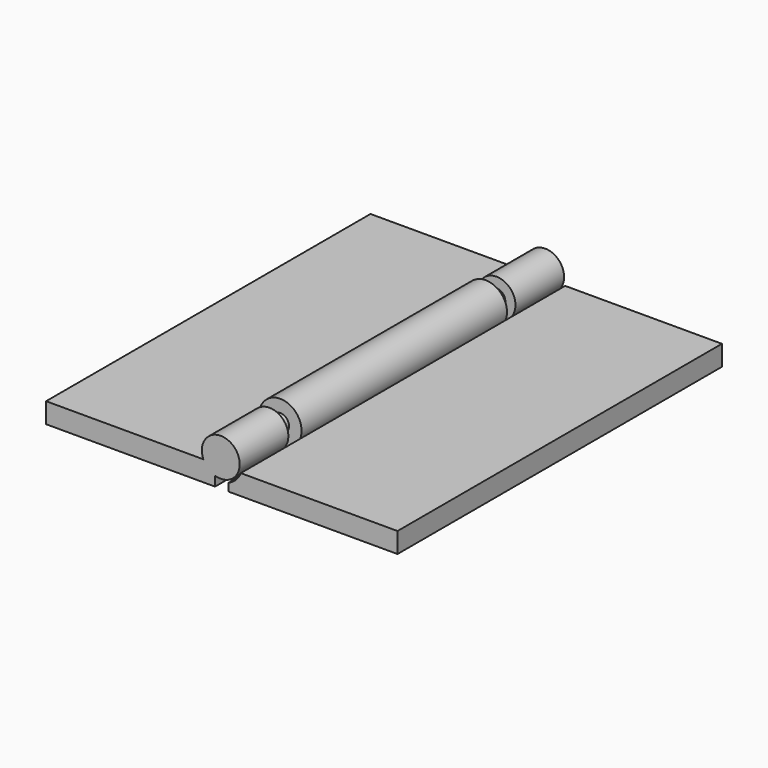
from build123d import *

# Parameters (mm, degrees)
CYLINDER007_R               = 1.3
CYLINDER007_DEPTH           = 12
CYLINDER007_ROLL_ANGLE      = 90
CYLINDER005_R               = 2.8
CYLINDER005_DEPTH           = 9
CYLINDER005_ROLL_ANGLE      = 90
CYLINDER003_R               = 2.8
CYLINDER003_DEPTH           = 60
CYLINDER003_ROLL_ANGLE      = 90
BOX_W                       = 25
BOX_H                       = 60
BOX_DEPTH                   = 3
CYLINDER004_R               = 2.8
CYLINDER004_DEPTH           = 9
CYLINDER004_ROLL_ANGLE      = 90
CYLINDER006_R               = 1.3
CYLINDER006_DEPTH           = 12
CYLINDER006_ROLL_ANGLE      = 90
CYLINDER001_R               = 1.5
CYLINDER001_DEPTH           = 38
CYLINDER001_ROLL_ANGLE      = -0.287004
CYLINDER001_PITCH_ANGLE     = 73.550491
CYLINDER001_PLACEMENT_ANGLE = -9.744548
CYLINDER_R                  = 3.15
CYLINDER_DEPTH              = 38
CYLINDER_ROLL_ANGLE         = 90
CYLINDER002_R               = 3.15
CYLINDER002_DEPTH           = 60
CYLINDER002_ROLL_ANGLE      = 90
BOX001_W                    = 25
BOX001_H                    = 60
BOX001_DEPTH                = 3


with BuildPart() as cylinder007:
    # Cylinder007 → Cylinder007 (new body)
    with BuildSketch(Plane.XY):
        Circle(CYLINDER007_R)
    extrude(amount=CYLINDER007_DEPTH)


with BuildPart() as cylinder007_1:
    # Cylinder007 roll: moved
    add(cylinder007.part.rotate(Axis((0, 0, 0), (1, 0, 0)), CYLINDER007_ROLL_ANGLE))


with BuildPart() as cylinder007_2:
    # Cylinder007 placement: moved
    add(cylinder007_1.part.moved(Location((28.15, 60, 3.1))))


with BuildPart() as fusion:
    # Cylinder005 → Cylinder005 (new body)
    with BuildSketch(Plane.XY):
        Circle(CYLINDER005_R)
    extrude(amount=CYLINDER005_DEPTH)


with BuildPart() as fusion_1:
    # Cylinder005 roll: moved
    add(fusion.part.rotate(Axis((0, 0, 0), (1, 0, 0)), CYLINDER005_ROLL_ANGLE))


with BuildPart() as fusion_2:
    # Cylinder005 placement: moved
    add(fusion_1.part.moved(Location((28.15, 60, 3.1))))

    # Fusion: union Cylinder007
    add(cylinder007_2.part)


with BuildPart() as cylinder003:
    # Cylinder003 → Cylinder003 (new body)
    with BuildSketch(Plane.XY):
        Circle(CYLINDER003_R)
    extrude(amount=CYLINDER003_DEPTH)


with BuildPart() as cylinder003_1:
    # Cylinder003 roll: moved
    add(cylinder003.part.rotate(Axis((0, 0, 0), (1, 0, 0)), CYLINDER003_ROLL_ANGLE))


with BuildPart() as cylinder003_2:
    # Cylinder003 placement: moved
    add(cylinder003_1.part.moved(Location((28.2, 60, 3.1))))


with BuildPart() as cut002:
    # Box → Box (new body)
    with BuildSketch(Plane(origin=(2.3, 0, -1), x_dir=(1, 0, 0), z_dir=(0, 0, 1))):
        with Locations((12.5, 30)):
            Rectangle(BOX_W, BOX_H)
    extrude(amount=BOX_DEPTH)

    # Cut002: cut Cylinder003
    add(cylinder003_2.part, mode=Mode.SUBTRACT)


with BuildPart() as cylinder004:
    # Cylinder004 → Cylinder004 (new body)
    with BuildSketch(Plane.XY):
        Circle(CYLINDER004_R)
    extrude(amount=CYLINDER004_DEPTH)


with BuildPart() as cylinder004_1:
    # Cylinder004 roll: moved
    add(cylinder004.part.rotate(Axis((0, 0, 0), (1, 0, 0)), CYLINDER004_ROLL_ANGLE))


with BuildPart() as cylinder004_2:
    # Cylinder004 placement: moved
    add(cylinder004_1.part.moved(Location((28.15, 9, 3.1))))


with BuildPart() as fusion002:
    # Cylinder006 → Cylinder006 (new body)
    with BuildSketch(Plane.XY):
        Circle(CYLINDER006_R)
    extrude(amount=CYLINDER006_DEPTH)


with BuildPart() as fusion002_1:
    # Cylinder006 roll: moved
    add(fusion002.part.rotate(Axis((0, 0, 0), (1, 0, 0)), CYLINDER006_ROLL_ANGLE))


with BuildPart() as fusion002_2:
    # Cylinder006 placement: moved
    add(fusion002_1.part.moved(Location((28.15, 12, 3.1))))

    # Fusion001: union Cylinder004
    add(cylinder004_2.part)

    # Fusion002: union Fusion, Cut002
    add(fusion_2.part)
    add(cut002.part)


with BuildPart() as cylinder001:
    # Cylinder001 → Cylinder001 (new body)
    with BuildSketch(Plane.XY):
        Circle(CYLINDER001_R)
    extrude(amount=CYLINDER001_DEPTH)


with BuildPart() as cylinder001_1:
    # Cylinder001 roll: moved
    add(cylinder001.part.rotate(Axis((0, 0, 0), (1, 0, 0)), CYLINDER001_ROLL_ANGLE))


with BuildPart() as cylinder001_2:
    # Cylinder001 pitch: moved
    add(cylinder001_1.part.rotate(Axis((0, 0, 0), (0, 1, 0)), CYLINDER001_PITCH_ANGLE))


with BuildPart() as cylinder001_3:
    # Cylinder001 placement: moved
    add(cylinder001_2.part.moved(Location((77.098368, 2.919036, 17.796417))).rotate(Axis((77.098368, 2.919036, 17.796417), (0, 0, 1)), CYLINDER001_PLACEMENT_ANGLE))


with BuildPart() as cut001:
    # Cylinder → Cylinder (new body)
    with BuildSketch(Plane.XY):
        Circle(CYLINDER_R)
    extrude(amount=CYLINDER_DEPTH)


with BuildPart() as cut001_1:
    # Cylinder roll: moved
    add(cut001.part.rotate(Axis((0, 0, 0), (1, 0, 0)), CYLINDER_ROLL_ANGLE))


with BuildPart() as cut001_2:
    # Cylinder placement: moved
    add(cut001_1.part.moved(Location((28.15, 49, 3.1))))

    # Cut001: cut Cylinder001
    add(cylinder001_3.part, mode=Mode.SUBTRACT)


with BuildPart() as cylinder002:
    # Cylinder002 → Cylinder002 (new body)
    with BuildSketch(Plane.XY):
        Circle(CYLINDER002_R)
    extrude(amount=CYLINDER002_DEPTH)


with BuildPart() as cylinder002_1:
    # Cylinder002 roll: moved
    add(cylinder002.part.rotate(Axis((0, 0, 0), (1, 0, 0)), CYLINDER002_ROLL_ANGLE))


with BuildPart() as cylinder002_2:
    # Cylinder002 placement: moved
    add(cylinder002_1.part.moved(Location((28.15, 60, 3.1))))


with BuildPart() as fusion003:
    # Box001 → Box001 (new body)
    with BuildSketch(Plane(origin=(29.3, 0, -1), x_dir=(1, 0, 0), z_dir=(0, 0, 1))):
        with Locations((12.5, 30)):
            Rectangle(BOX001_W, BOX001_H)
    extrude(amount=BOX001_DEPTH)

    # Cut: cut Cylinder002
    add(cylinder002_2.part, mode=Mode.SUBTRACT)

    # Fusion003: union Cut001
    add(cut001_2.part)


solid = Compound([fusion002_2.part, fusion003.part])
